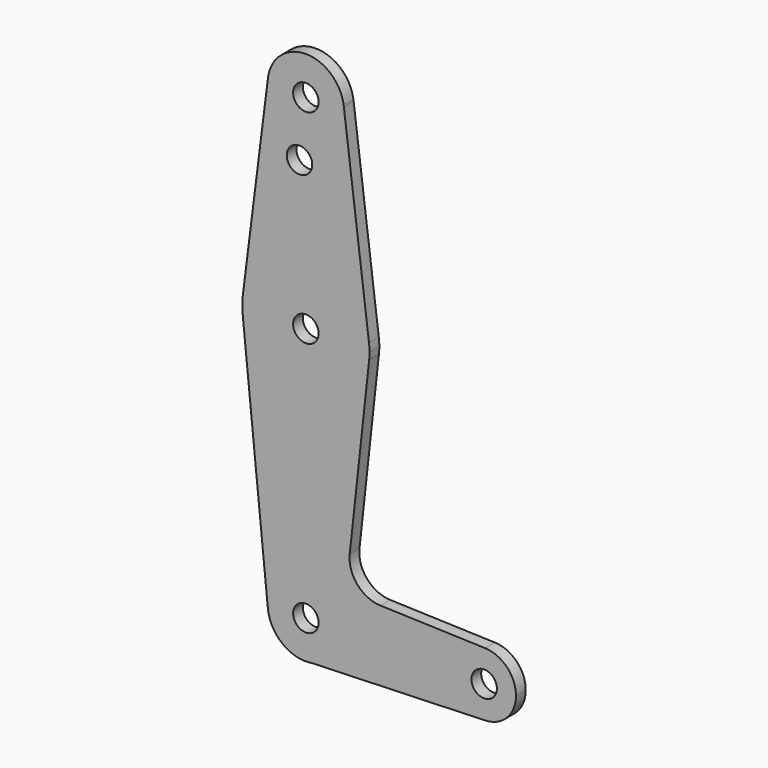
from build123d import *

# Parameters (mm, degrees)
F0_R     = 3.175
F1_DEPTH = 3.048


with BuildPart() as f1:
    # F0 (on Front) → F1 (new body)
    with BuildSketch(Plane.XZ):
        with BuildLine():
            ThreePointArc((1.574805, -9.393914), (7.270682, -6.153276), (9.525, 0))
            ThreePointArc((9.525, 0), (-0.476467, 9.513075), (-9.477332, -0.95174))
            ThreePointArc((-9.477332, -0.95174), (-5.781873, -7.569384), (1.574805, -9.393914))
        make_face()
        Circle(F0_R, mode=Mode.SUBTRACT)
        with BuildLine():
            ThreePointArc((-9.477332, -0.95174), (-0.476467, 9.513075), (9.525, 0))
            ThreePointArc((9.525, 0), (7.270682, -6.153276), (1.574805, -9.393914))
            Line((1.574805, -9.393914), (44.71863, -7.932953))
            ThreePointArc((44.71863, -7.932953), (36.512501, -0.002938), (44.712758, 7.93315))
            Line((44.712758, 7.93315), (18.574244, 8.798898))
            ThreePointArc((18.574244, 8.798898), (12.830078, 11.537295), (10.934664, 17.611969))
            Line((10.934664, 17.611969), (15.780269, 61.768314))
            ThreePointArc((15.780269, 61.768314), (0.127385, 47.625511), (-15.750447, 61.515294))
            Line((-15.750447, 61.515294), (-9.477332, -0.95174))
        make_face()
        with BuildLine():
            ThreePointArc((-15.750447, 65.484706), (-15.875, 63.5), (-15.750447, 61.515294))
            ThreePointArc((-15.750447, 61.515294), (0.127385, 47.625511), (15.780269, 61.768314))
            ThreePointArc((15.780269, 61.768314), (15.8513, 62.632862), (15.875, 63.5))
            ThreePointArc((15.875, 63.5), (15.843814, 64.49457), (15.75038, 65.485232))
            ThreePointArc((15.75038, 65.485232), (-0.000265, 79.375), (-15.750447, 65.484706))
        make_face()
        with Locations((0, 63.5)):
            Circle(F0_R, mode=Mode.SUBTRACT)
        with BuildLine():
            ThreePointArc((44.712758, 7.93315), (36.512501, -0.002938), (44.71863, -7.932953))
            ThreePointArc((44.71863, -7.932953), (50.156845, -5.516868), (52.3875, 0))
            ThreePointArc((52.3875, 0), (50.154803, 5.518979), (44.712758, 7.93315))
        make_face()
        with Locations((44.45, 0)):
            Circle(F0_R, mode=Mode.SUBTRACT)
        with BuildLine():
            Line((-9.466973, 115.349789), (-15.750447, 65.484706))
            ThreePointArc((-15.750447, 65.484706), (-0.000265, 79.375), (15.75038, 65.485232))
            Line((15.75038, 65.485232), (9.476093, 115.263997))
            ThreePointArc((9.476093, 115.263997), (9.512765, 114.782618), (9.525, 114.3))
            ThreePointArc((9.525, 114.3), (-0.525696, 104.789518), (-9.466973, 115.349789))
        make_face()
        with Locations((-1.5875, 100.0252)):
            Circle(F0_R, mode=Mode.SUBTRACT)
        with BuildLine():
            Line((-9.431462, 115.631594), (-9.466973, 115.349789))
            ThreePointArc((-9.466973, 115.349789), (-0.525696, 104.789518), (9.525, 114.3))
            ThreePointArc((9.525, 114.3), (9.512765, 114.782618), (9.476093, 115.263997))
            Line((9.476093, 115.263997), (9.41892, 115.717596))
            ThreePointArc((9.41892, 115.717596), (-0.043456, 123.824901), (-9.431462, 115.631594))
        make_face()
        with Locations((0, 114.3)):
            Circle(F0_R, mode=Mode.SUBTRACT)
        with BuildLine():
            ThreePointArc((-9.431462, 115.631594), (-9.450268, 115.490824), (-9.466973, 115.349789))
            Line((-9.466973, 115.349789), (-9.431462, 115.631594))
        make_face()
        with BuildLine():
            Line((9.41892, 115.717596), (9.476093, 115.263997))
            ThreePointArc((9.476093, 115.263997), (9.450228, 115.491139), (9.41892, 115.717596))
        make_face()
    extrude(amount=F1_DEPTH)


solid = f1.part
